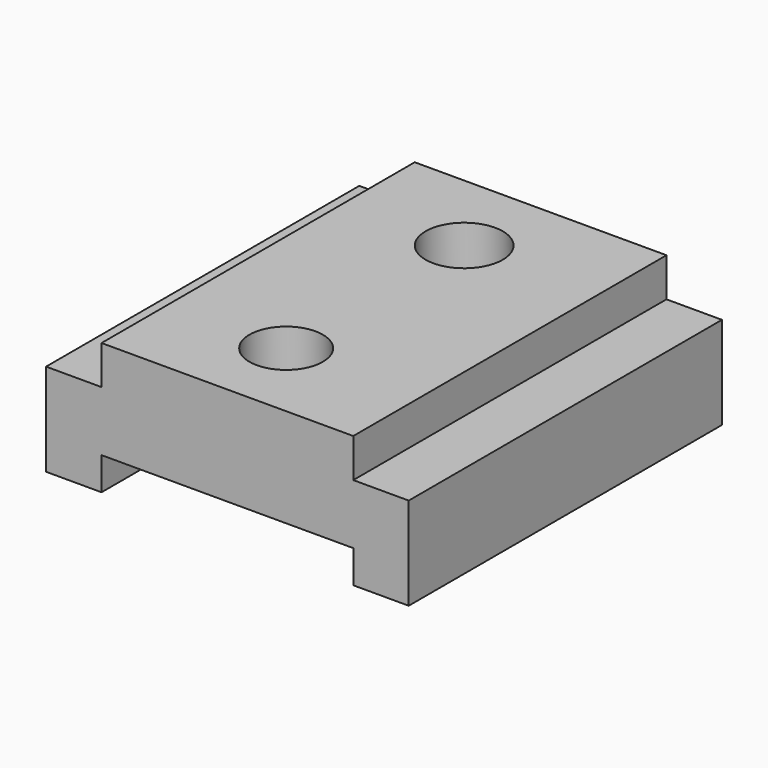
from build123d import *

# Parameters (mm, degrees)
F1_DEPTH = 101.6
F2_R     = 10.012863
F2_R_2   = 9.528217
F3_DEPTH = 76.2


with BuildPart() as f1:
    # F0 (on Front) → F1 (new body)
    with BuildSketch(Plane.XZ):
        Polygon((34.680594, 34.104981), (-30.651314, 34.104981), (-30.651314, 24.031783), (-45.041602, 24.031783), (-45.041602, 0), (-30.651314, 0), (-30.651314, 8.49027), (34.680594, 8.49027), (34.680594, 0), (49.070882, 0), (49.070882, 24.031783), (34.680594, 24.031783), align=None)
    extrude(amount=F1_DEPTH)

    # F2 (on face) → F3 (cut)
    with BuildSketch(Plane.XY.offset(34.104981)):
        with Locations((0, -22.26954)):
            Circle(F2_R)
        with Locations((0, -80.022559)):
            Circle(F2_R_2)
    extrude(amount=-F3_DEPTH, mode=Mode.SUBTRACT)


solid = f1.part
